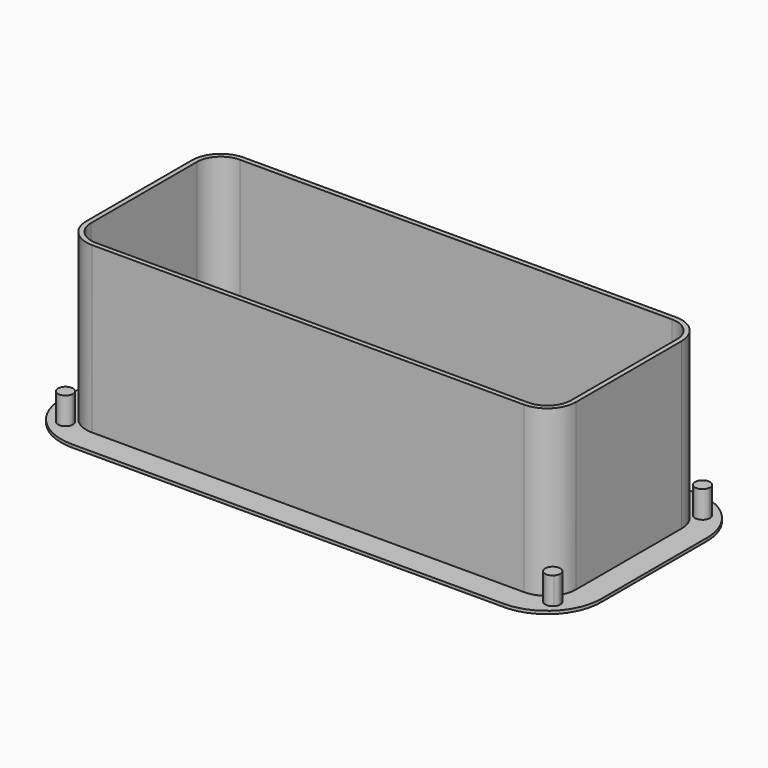
from build123d import *

# Parameters (mm, degrees)
F1_DEPTH = 1
F3_DEPTH = 55
F5_DEPTH = 10


with BuildPart() as f1:
    # F0 (on Top) → F1 (new body)
    with BuildSketch(Plane.XY):
        with BuildLine():
            Line((-72, -40), (72, -40))
            ThreePointArc((72, -40), (84.727922, -34.727922), (90, -22))
            Line((90, -22), (90, 22))
            ThreePointArc((90, 22), (84.727922, 34.727922), (72, 40))
            Line((72, 40), (-72, 40))
            ThreePointArc((-72, 40), (-84.727922, 34.727922), (-90, 22))
            Line((-90, 22), (-90, -22))
            ThreePointArc((-90, -22), (-84.727922, -34.727922), (-72, -40))
        make_face()
        with BuildLine():
            Line((-72, 30), (72, 30))
            ThreePointArc((72, 30), (77.656854, 27.656854), (80, 22))
            Line((80, 22), (80, -22))
            ThreePointArc((80, -22), (77.656854, -27.656854), (72, -30))
            Line((72, -30), (-72, -30))
            ThreePointArc((-72, -30), (-77.656854, -27.656854), (-80, -22))
            Line((-80, -22), (-80, 22))
            ThreePointArc((-80, 22), (-77.656854, 27.656854), (-72, 30))
        make_face(mode=Mode.SUBTRACT)
    extrude(amount=F1_DEPTH)

    # F2 (on face) → F3 (join)
    with BuildSketch(Plane.XY.offset(1)):
        with BuildLine():
            Line((81.6, -22), (81.6, 22))
            ThreePointArc((81.6, 22), (78.788225, 28.788225), (72, 31.6))
            Line((72, 31.6), (-72, 31.6))
            ThreePointArc((-72, 31.6), (-78.788225, 28.788225), (-81.6, 22))
            Line((-81.6, 22), (-81.6, -22))
            ThreePointArc((-81.6, -22), (-78.788225, -28.788225), (-72, -31.6))
            Line((-72, -31.6), (72, -31.6))
            ThreePointArc((72, -31.6), (78.788225, -28.788225), (81.6, -22))
        make_face()
        with BuildLine():
            Line((-72, 30), (72, 30))
            ThreePointArc((72, 30), (77.656854, 27.656854), (80, 22))
            Line((80, 22), (80, -22))
            ThreePointArc((80, -22), (77.656854, -27.656854), (72, -30))
            Line((72, -30), (-72, -30))
            ThreePointArc((-72, -30), (-77.656854, -27.656854), (-80, -22))
            Line((-80, -22), (-80, 22))
            ThreePointArc((-80, 22), (-77.656854, 27.656854), (-72, 30))
        make_face(mode=Mode.SUBTRACT)
    extrude(amount=F3_DEPTH)

    # F4 (on face) → F5 (join)
    with BuildSketch(Plane(origin=(0, 0, 0), x_dir=(1, 0, 0), z_dir=(0, 0, -1))):
        with BuildLine():
            ThreePointArc((-78.692388, -31.192388), (-78.882689, -30.23568), (-79.424621, -29.424621))
            Line((-79.424621, -29.424621), (-82.960155, -32.960155))
            ThreePointArc((-82.960155, -32.960155), (-80.23568, -33.502087), (-78.692388, -31.192388))
        make_face()
        with BuildLine():
            Line((-82.960155, -32.960155), (-79.424621, -29.424621))
            ThreePointArc((-79.424621, -29.424621), (-82.960155, -29.424621), (-82.960155, -32.960155))
        make_face()
        with BuildLine():
            ThreePointArc((83.692388, -31.192388), (82.149097, -28.882689), (79.424621, -29.424621))
            Line((79.424621, -29.424621), (82.960155, -32.960155))
            ThreePointArc((82.960155, -32.960155), (83.502087, -32.149097), (83.692388, -31.192388))
        make_face()
        with BuildLine():
            Line((82.960155, -32.960155), (79.424621, -29.424621))
            ThreePointArc((79.424621, -29.424621), (79.424621, -32.960155), (82.960155, -32.960155))
        make_face()
        with BuildLine():
            ThreePointArc((82.960155, 32.960155), (79.424621, 32.960155), (79.424621, 29.424621))
            Line((79.424621, 29.424621), (82.960155, 32.960155))
        make_face()
        with BuildLine():
            Line((82.960155, 32.960155), (79.424621, 29.424621))
            ThreePointArc((79.424621, 29.424621), (82.149097, 28.882689), (83.692388, 31.192388))
            ThreePointArc((83.692388, 31.192388), (83.502087, 32.149097), (82.960155, 32.960155))
        make_face()
        with BuildLine():
            ThreePointArc((-82.960155, 32.960155), (-82.960155, 29.424621), (-79.424621, 29.424621))
            Line((-79.424621, 29.424621), (-82.960155, 32.960155))
        make_face()
        with BuildLine():
            Line((-82.960155, 32.960155), (-79.424621, 29.424621))
            ThreePointArc((-79.424621, 29.424621), (-78.882689, 30.23568), (-78.692388, 31.192388))
            ThreePointArc((-78.692388, 31.192388), (-80.23568, 33.502087), (-82.960155, 32.960155))
        make_face()
    extrude(amount=-F5_DEPTH)


solid = f1.part
